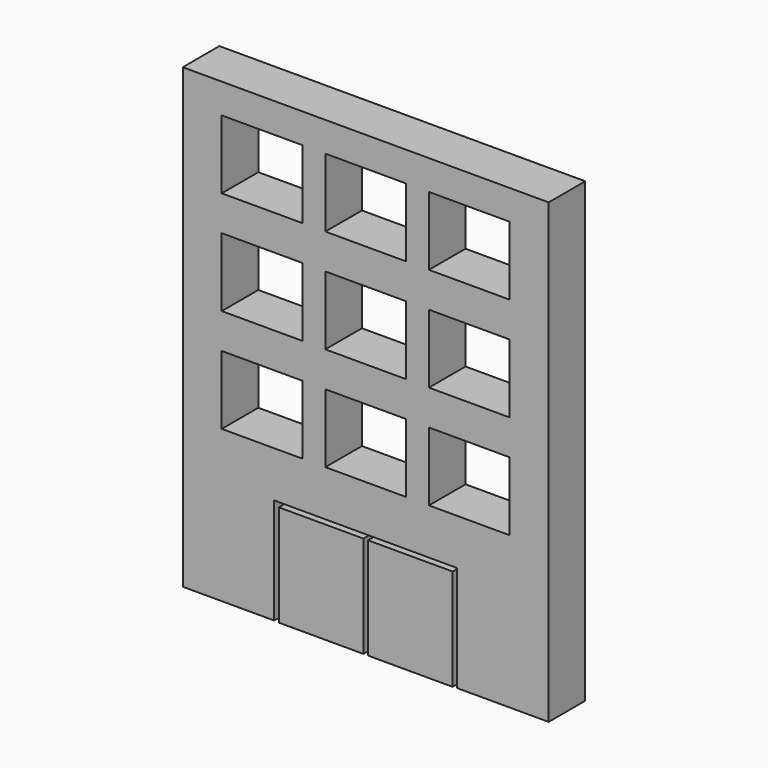
from build123d import *

# Parameters (mm, degrees)
F0_W     = 44.8322
F0_H     = 38.1
F1_DEPTH = 25.4


with BuildPart() as f1:
    # F0 (on Front) → F1 (new body)
    with BuildSketch(Plane.XZ):
        Polygon((101.6, 127), (-101.6, 127), (-101.6, -127), (-50.8, -127), (-50.8, -68.278951), (50.8, -68.278951), (50.8, -127), (101.6, -127), align=None)
        with Locations((-57.5322, -23.72646)):
            Rectangle(F0_W, F0_H, mode=Mode.SUBTRACT)
        with Locations((0, -23.72646)):
            Rectangle(F0_W, F0_H, mode=Mode.SUBTRACT)
        with Locations((57.5322, -23.72646)):
            Rectangle(F0_W, F0_H, mode=Mode.SUBTRACT)
        with Locations((-57.5322, 33.85677)):
            Rectangle(F0_W, F0_H, mode=Mode.SUBTRACT)
        with Locations((0, 33.85677)):
            Rectangle(F0_W, F0_H, mode=Mode.SUBTRACT)
        with Locations((-57.5322, 91.44)):
            Rectangle(F0_W, F0_H, mode=Mode.SUBTRACT)
        with Locations((0, 91.44)):
            Rectangle(F0_W, F0_H, mode=Mode.SUBTRACT)
        with Locations((57.5322, 33.85677)):
            Rectangle(F0_W, F0_H, mode=Mode.SUBTRACT)
        with Locations((57.5322, 91.44)):
            Rectangle(F0_W, F0_H, mode=Mode.SUBTRACT)
        Polygon((-48.26, -70.818951), (-48.26, -127.202397), (-1.27, -127.202397), (-1.27, -127), (-1.27, -70.818951), align=None)
        Polygon((1.27, -127.202397), (48.26, -127.202397), (48.26, -70.818951), (1.27, -70.818951), (1.27, -127), align=None)
    extrude(amount=F1_DEPTH)


solid = f1.part
